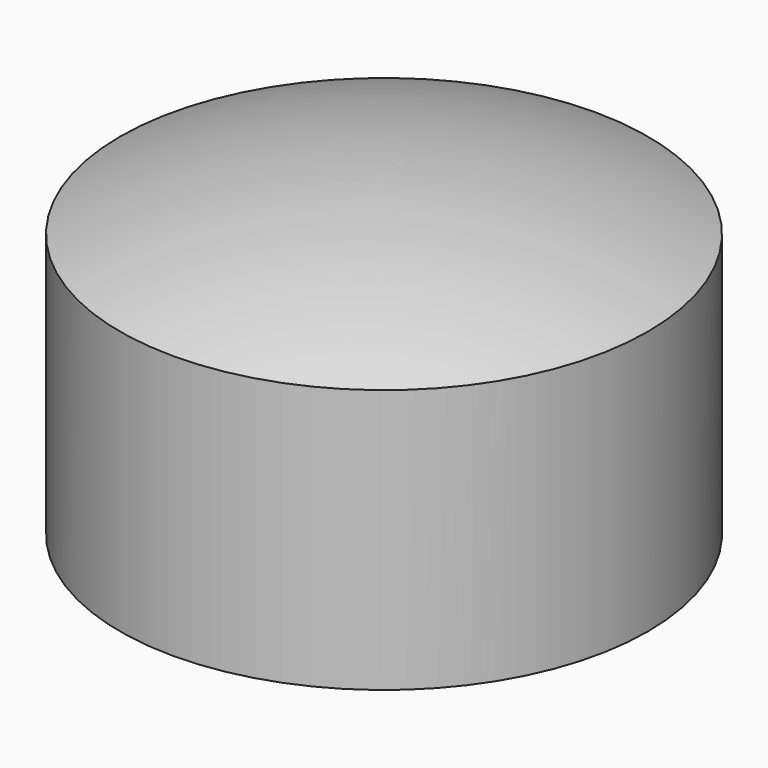
from build123d import *

# Parameters (mm, degrees)
F0_R     = 5
F1_DEPTH = 2.5


with BuildPart() as f1:
    # F0 (on Top) → F1 (new body, symmetric)
    with BuildSketch(Plane.XY):
        Circle(F0_R)
    extrude(amount=F1_DEPTH, both=True)

    # F2 (on Right) → F3 (revolve)
    with BuildSketch(Plane.YZ):
        with BuildLine():
            Line((0, 2.5), (5, 2.5))
            ThreePointArc((5, 2.5), (2.54951, 3.247549), (0, 3.5))
            Line((0, 3.5), (0, 2.5))
        make_face()
        with BuildLine():
            ThreePointArc((0, -3.5), (2.54951, -3.247549), (5, -2.5))
            Line((5, -2.5), (0, -2.5))
            Line((0, -2.5), (0, -3.5))
        make_face()
    revolve(axis=Axis((0, 0, 3), (0, 0, -1)))


solid = f1.part
